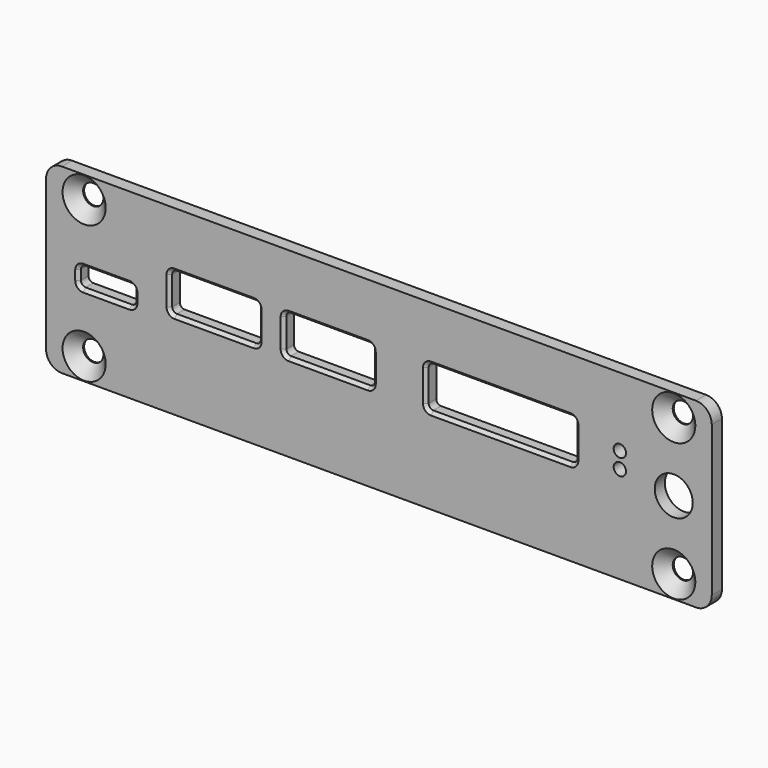
from build123d import *

# Parameters (mm, degrees)
SKETCH_W         = 105
SKETCH_H         = 28.7
PAD_DEPTH        = 2
FILLET_R         = 2.5
HOLE_D           = 3.2
HOLE_DEPTH       = 25
HOLE_CSINK_D     = 6.8
HOLE_CSINK_ANGLE = 90
SKETCH002_W      = 8.8
SKETCH002_H      = 3
SKETCH002_W_2    = 14
SKETCH002_H_2    = 6
SKETCH002_W_3    = 23.5
SKETCH002_H_3    = 6.5
POCKET_DEPTH     = 2.001
FILLET001_R      = 0.75
CHAMFER_SIZE     = 0.5
SKETCH003_R      = 0.975
HOLE001_DEPTH    = 25
SKETCH004_R      = 3
HOLE002_DEPTH    = 25


with BuildPart() as part:
    # Sketch → Pad (new body)
    with BuildSketch(Plane.XZ):
        Rectangle(SKETCH_W, SKETCH_H)
    extrude(amount=-PAD_DEPTH)

    # Fillet
    fillet_edges = [part.edges().sort_by_distance(p)[0] for p in [
        (52.5, 1, 14.35),
        (52.5, 1, -14.35),
        (-52.5, 1, 14.35),
        (-52.5, 1, -14.35),
    ]]
    fillet(fillet_edges, radius=FILLET_R)

    # Hole
    with Locations(Plane.XZ):
        with Locations((46.5, 10.85), (46.5, -10.85), (-46.5, -10.85), (-46.5, 10.85)):
            CounterSinkHole(HOLE_D / 2, HOLE_CSINK_D / 2, depth=HOLE_DEPTH, counter_sink_angle=HOLE_CSINK_ANGLE)

    # Sketch002 → Pocket (cut, through all)
    with BuildSketch(Plane.XZ):
        with Locations((-43, -0.06)):
            Rectangle(SKETCH002_W, SKETCH002_H)
        with Locations((-26, 2.45)):
            Rectangle(SKETCH002_W_2, SKETCH002_H_2)
        with Locations((-8, 2.45)):
            Rectangle(SKETCH002_W_2, SKETCH002_H_2)
        with Locations((19.2, 2.45)):
            Rectangle(SKETCH002_W_3, SKETCH002_H_3)
    extrude(amount=-POCKET_DEPTH, mode=Mode.SUBTRACT)

    # Fillet001
    fillet001_edges = [part.edges().sort_by_distance(p)[0] for p in [
        (-19, 1, -0.55),
        (-1, 1, -0.55),
        (30.95, 1, -0.8),
        (-33, 1, -0.55),
        (-47.4, 1, -1.56),
        (-15, 1, -0.55),
        (7.45, 1, -0.8),
        (-38.6, 1, -1.56),
        (-47.4, 1, 1.44),
        (-33, 1, 5.45),
        (-15, 1, 5.45),
        (7.45, 1, 5.7),
        (30.95, 1, 5.7),
        (-1, 1, 5.45),
        (-19, 1, 5.45),
        (-38.6, 1, 1.44),
    ]]
    fillet(fillet001_edges, radius=FILLET001_R)

    # Chamfer
    chamfer_edges = [part.edges().sort_by_distance(p)[0] for p in [
        (19.2, 0, -0.8),
        (-8, 0, -0.55),
        (-26, 0, -0.55),
        (-43, 0, -1.56),
    ]]
    chamfer(chamfer_edges, length=CHAMFER_SIZE)

    # Sketch003 → Hole001 (cut)
    with BuildSketch(Plane.XZ):
        with Locations((38, 0.94)):
            Circle(SKETCH003_R)
        with Locations((38, 3.48)):
            Circle(SKETCH003_R)
    extrude(amount=-HOLE001_DEPTH, mode=Mode.SUBTRACT)

    # Sketch004 → Hole002 (cut)
    with BuildSketch(Plane.XZ):
        with Locations((46.5, 0)):
            Circle(SKETCH004_R)
    extrude(amount=-HOLE002_DEPTH, mode=Mode.SUBTRACT)


solid = part.part
